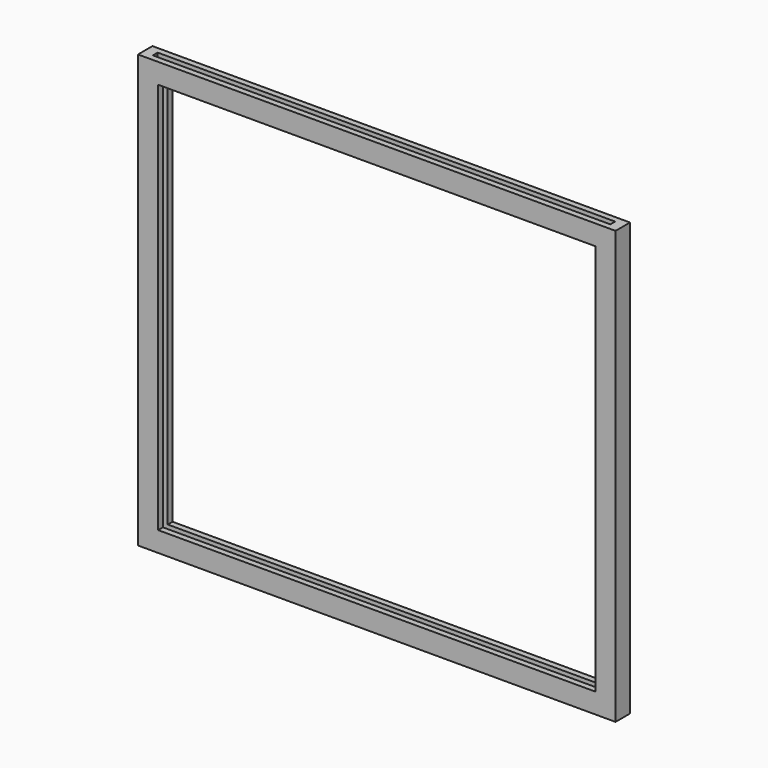
from build123d import *

# Parameters (mm, degrees)
F0_W     = 47.5
F0_H     = 43
F1_DEPTH = 0.9
F2_W     = 43.5
F2_H     = 39
F3_DEPTH = 1
F4_W     = 45.5
F4_H     = 42
F5_DEPTH = 0.3


with BuildPart() as f1:
    # F0 (on Front) → F1 (new body, symmetric)
    with BuildSketch(Plane.XZ):
        with Locations((23.75, 21.5)):
            Rectangle(F0_W, F0_H)
    extrude(amount=F1_DEPTH, both=True)

    # F2 (on Front) → F3 (cut, symmetric)
    with BuildSketch(Plane.XZ):
        with Locations((23.75, 21.5)):
            Rectangle(F2_W, F2_H)
    extrude(amount=F3_DEPTH, both=True, mode=Mode.SUBTRACT)

    # F4 (on Front) → F5 (cut, symmetric)
    with BuildSketch(Plane.XZ):
        with Locations((23.75, 22)):
            Rectangle(F4_W, F4_H)
    extrude(amount=F5_DEPTH, both=True, mode=Mode.SUBTRACT)


solid = f1.part
